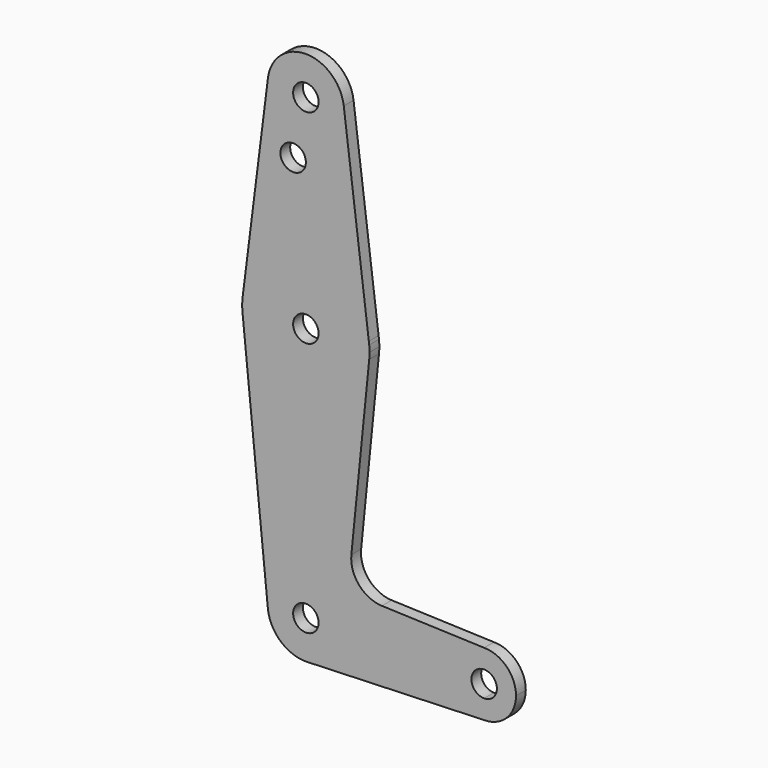
from build123d import *

# Parameters (mm, degrees)
F0_R     = 3.175
F1_DEPTH = 3.048


with BuildPart() as f1:
    # F0 (on Front) → F1 (new body)
    with BuildSketch(Plane.XZ):
        with BuildLine():
            ThreePointArc((-9.4504106795, 115.4896902908), (-0.5960131196, 104.7936656191), (9.525, 114.3))
            ThreePointArc((9.525, 114.3), (9.5063343809, 114.8960131196), (9.4504106795, 115.4896902908))
            ThreePointArc((9.4504106795, 115.4896902908), (0, 123.825), (-9.4504106795, 115.4896902908))
        make_face()
        with Locations((0, 114.3)):
            Circle(F0_R, mode=Mode.SUBTRACT)
        with BuildLine():
            ThreePointArc((9.4504106795, 115.4896902908), (9.5063343809, 114.8960131196), (9.525, 114.3))
            ThreePointArc((9.525, 114.3), (-0.5960131196, 104.7936656191), (-9.4504106795, 115.4896902908))
            Line((-9.4504106795, 115.4896902909), (-15.6960512127, 65.8768890024))
            ThreePointArc((-15.6960512127, 65.8768890024), (0, 79.375), (15.6960512127, 65.8768890024))
            Line((15.6960512127, 65.8768890024), (9.4504106795, 115.4896902908))
        make_face()
        with Locations((-3.175, 100.0252)):
            Circle(F0_R, mode=Mode.SUBTRACT)
        with BuildLine():
            Line((15.7954255641, 65.0875), (15.6960512127, 65.8768890024))
            ThreePointArc((15.6960512127, 65.8768890024), (0, 79.375), (-15.6960512127, 65.8768890024))
            Line((-15.6960512127, 65.8768890024), (-15.7954255641, 65.0875))
            ThreePointArc((-15.7954255641, 65.0875), (-15.875, 63.5), (-15.7954255641, 61.9125))
            ThreePointArc((-15.7954255641, 61.9125), (0, 47.625), (15.7954255641, 61.9125))
            ThreePointArc((15.7954255641, 61.9125), (15.8550939106, 62.7052534459), (15.875, 63.5))
            ThreePointArc((15.875, 63.5), (15.8550939106, 64.2947465541), (15.7954255641, 65.0875))
        make_face()
        with Locations((0, 63.5)):
            Circle(F0_R, mode=Mode.SUBTRACT)
        with BuildLine():
            ThreePointArc((15.7954255641, 65.0875), (15.7506844659, 65.4828171514), (15.6960512127, 65.8768890024))
            Line((15.6960512127, 65.8768890024), (15.7954255641, 65.0875))
        make_face()
        with BuildLine():
            Line((-15.7954255641, 65.0875), (-15.6960512127, 65.8768890024))
            ThreePointArc((-15.6960512127, 65.8768890024), (-15.7506844659, 65.4828171514), (-15.7954255641, 65.0875))
        make_face()
        with BuildLine():
            ThreePointArc((15.7954255641, 61.9125), (0, 47.625), (-15.7954255641, 61.9125))
            Line((-15.7954255641, 61.9125), (-9.4772553384, -0.9525))
            ThreePointArc((-9.4772553384, -0.9525), (-0.4768479324, 9.5130563464), (9.525, 0))
            ThreePointArc((9.525, 0), (6.8547876928, -6.6134341069), (0.3412707219, -9.5188843513))
            Line((0.3412707219, -9.5188843513), (44.45, -7.9375))
            ThreePointArc((44.45, -7.9375), (36.5125, 0), (44.45, 7.9375))
            Line((44.45, 7.9375), (18.9672152943, 8.8475994538))
            ThreePointArc((18.9672152943, 8.8475994538), (13.2606937919, 11.5656631571), (11.3406209777, 17.5877540184))
            Line((11.3406209777, 17.5877540184), (15.7954255641, 61.9125))
        make_face()
        with BuildLine():
            ThreePointArc((9.525, 0), (-0.4768479324, 9.5130563464), (-9.4772553384, -0.9525))
            ThreePointArc((-9.4772553384, -0.9525), (-6.2619716497, -7.1772791542), (0.3412707219, -9.5188843513))
            ThreePointArc((0.3412707219, -9.5188843513), (6.8547876928, -6.6134341069), (9.525, 0))
        make_face()
        Circle(F0_R, mode=Mode.SUBTRACT)
        with BuildLine():
            Line((44.45, -3.175), (44.45, -7.9375))
            ThreePointArc((44.45, -7.9375), (50.0626600757, -5.6126600757), (52.3875, 0))
            ThreePointArc((52.3875, 0), (50.0626600757, 5.6126600757), (44.45, 7.9375))
            Line((44.45, 7.9375), (44.45, 3.175))
            ThreePointArc((44.45, 3.175), (46.6950640303, 2.2450640303), (47.625, 0))
            ThreePointArc((47.625, 0), (46.6950640303, -2.2450640303), (44.45, -3.175))
        make_face()
        with BuildLine():
            ThreePointArc((44.45, 7.9375), (36.5125, 0), (44.45, -7.9375))
            Line((44.45, -7.9375), (44.45, -3.175))
            ThreePointArc((44.45, -3.175), (41.275, 0), (44.45, 3.175))
            Line((44.45, 3.175), (44.45, 7.9375))
        make_face()
    extrude(amount=F1_DEPTH)


solid = f1.part
